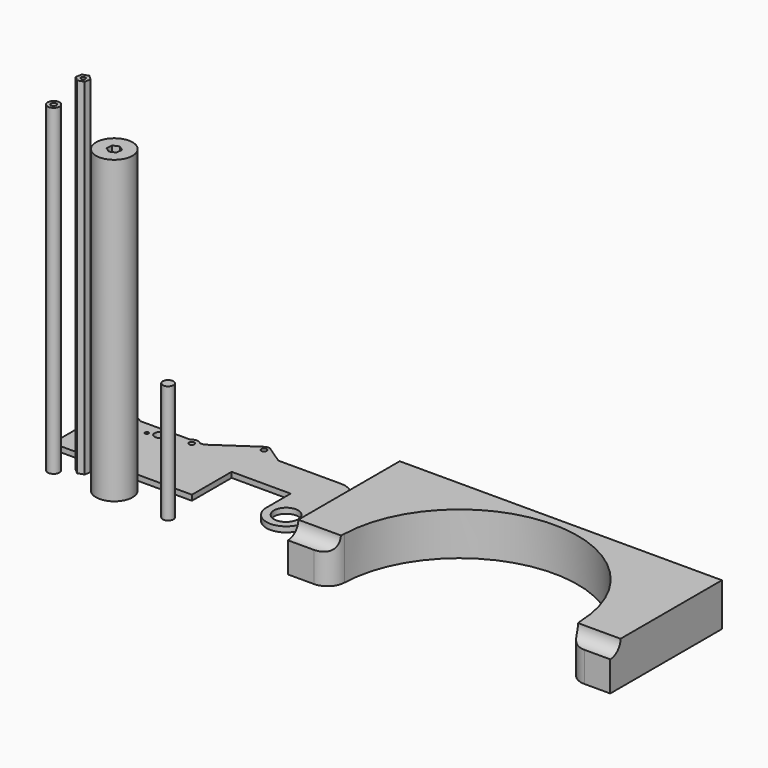
from build123d import *

# Parameters (mm, degrees)
F1_R      = 14.2875
F1_R_2    = 3.175
F1_R_3    = 2
F1_R_4    = 5.9944
F2_DEPTH  = 6.35
F3_R      = 6.985
F3_R_2    = 3.175
F4_DEPTH  = 381
F5_R      = 2.5527
F6_DEPTH  = 408.94
F7_R      = 21.59
F8_DEPTH  = 355.6
F10_DEPTH = 50.8
F11_R     = 20.32
F13_DEPTH = 381
F14_R     = 6.35
F15_DEPTH = 139.7


with BuildPart() as f2:
    # F1 (on Top) → F2 (new body)
    with BuildSketch(Plane.XY):
        with BuildLine():
            Line((-49.9910764957, 62.1962980512), (-63.8297284243, 62.1962980512))
            ThreePointArc((-63.8297284243, 62.1962980512), (-94.8530671804, 53.8699299137), (-74.2244912377, 29.2480329821))
            Line((-74.2244912377, 29.2480329821), (-74.2244912377, -22.9390313281))
            Line((-74.2244912377, -22.9390313281), (90.8755087623, -22.9390313281))
            Line((90.8755087623, -22.9390313281), (90.8755087623, 35.7300707037))
            Line((90.8755087623, 35.7300707037), (160.7255087623, 35.7300707037))
            Line((160.7255087623, 35.7300707037), (160.7255087623, 0))
            ThreePointArc((160.7255087623, 0), (183.9030087623, -23.1775), (207.0805087623, 0))
            Line((207.0805087623, 0), (207.0805087623, 57.9550707037))
            ThreePointArc((207.0805087623, 57.9550707037), (200.5709569742, 73.6705189156), (184.8555087623, 80.1800707037))
            Line((184.8555087623, 80.1800707037), (110.5558629778, 80.1800707037))
            Line((110.5558629778, 80.1800707037), (90.5031153064, 93.7624556725))
            ThreePointArc((90.5031153064, 93.7624556725), (86.9420412896, 94.8549608464), (83.3809672727, 93.7624556725))
            Line((83.3809672727, 93.7624556725), (63.3282196013, 80.1800707037))
            Line((63.3282196013, 80.1800707037), (36.9001390489, 62.1962980512))
            Line((36.9001390489, 62.1962980512), (32.3953867519, 62.1962980512))
            ThreePointArc((32.3953867519, 62.1962980512), (26.7157740891, 64.7362980512), (21.0361614262, 62.1962980512))
            Line((21.0361614262, 62.1962980512), (-38.63185117, 62.1962980512))
            ThreePointArc((-38.63185117, 62.1962980512), (-44.3114638329, 64.7362980512), (-49.9910764957, 62.1962980512))
        make_face()
        with Locations((183.9030087623, 0)):
            Circle(F1_R, mode=Mode.SUBTRACT)
        with Locations((-76.6857422854, 48.1383676345)):
            Circle(F1_R, mode=Mode.SUBTRACT)
        with Locations((-44.3114638329, 57.1162980512)):
            Circle(F1_R_2, mode=Mode.SUBTRACT)
        with Locations((-18.747377767, 47.4084117594)):
            Circle(F1_R_3, mode=Mode.SUBTRACT)
        with Locations((-7.0042270236, 51.6825690866)):
            Circle(F1_R_4, mode=Mode.SUBTRACT)
        with Locations((4.7389237199, 55.9567264137)):
            Circle(F1_R_3, mode=Mode.SUBTRACT)
        with Locations((26.7157740891, 57.1162980512)):
            Circle(F1_R_2, mode=Mode.SUBTRACT)
        with Locations((86.9420412896, 88.5049608464)):
            Circle(F1_R_2, mode=Mode.SUBTRACT)
        with BuildLine():
            Line((-49.9910764957, 62.1962980512), (-63.8297284243, 62.1962980512))
            ThreePointArc((-63.8297284243, 62.1962980512), (-94.8530671804, 53.8699299137), (-74.2244912377, 29.2480329821))
            Line((-74.2244912377, 29.2480329821), (-74.2244912377, -22.9390313281))
            Line((-74.2244912377, -22.9390313281), (90.8755087623, -22.9390313281))
            Line((90.8755087623, -22.9390313281), (90.8755087623, 35.7300707037))
            Line((90.8755087623, 35.7300707037), (160.7255087623, 35.7300707037))
            Line((160.7255087623, 35.7300707037), (160.7255087623, 0))
            ThreePointArc((160.7255087623, 0), (183.9030087623, -23.1775), (207.0805087623, 0))
            Line((207.0805087623, 0), (207.0805087623, 57.9550707037))
            ThreePointArc((207.0805087623, 57.9550707037), (200.5709569742, 73.6705189156), (184.8555087623, 80.1800707037))
            Line((184.8555087623, 80.1800707037), (110.5558629778, 80.1800707037))
            Line((110.5558629778, 80.1800707037), (90.5031153064, 93.7624556725))
            ThreePointArc((90.5031153064, 93.7624556725), (86.9420412896, 94.8549608464), (83.3809672727, 93.7624556725))
            Line((83.3809672727, 93.7624556725), (63.3282196013, 80.1800707037))
            Line((63.3282196013, 80.1800707037), (36.9001390489, 62.1962980512))
            Line((36.9001390489, 62.1962980512), (32.3953867519, 62.1962980512))
            ThreePointArc((32.3953867519, 62.1962980512), (26.7157740891, 64.7362980512), (21.0361614262, 62.1962980512))
            Line((21.0361614262, 62.1962980512), (-38.63185117, 62.1962980512))
            ThreePointArc((-38.63185117, 62.1962980512), (-44.3114638329, 64.7362980512), (-49.9910764957, 62.1962980512))
        make_face()
        with Locations((183.9030087623, 0)):
            Circle(F1_R, mode=Mode.SUBTRACT)
        with Locations((-76.6857422854, 48.1383676345)):
            Circle(F1_R, mode=Mode.SUBTRACT)
        with Locations((-44.3114638329, 57.1162980512)):
            Circle(F1_R_2, mode=Mode.SUBTRACT)
        with Locations((-18.747377767, 47.4084117594)):
            Circle(F1_R_3, mode=Mode.SUBTRACT)
        with Locations((-7.0042270236, 51.6825690866)):
            Circle(F1_R_4, mode=Mode.SUBTRACT)
        with Locations((4.7389237199, 55.9567264137)):
            Circle(F1_R_3, mode=Mode.SUBTRACT)
        with Locations((26.7157740891, 57.1162980512)):
            Circle(F1_R_2, mode=Mode.SUBTRACT)
        with Locations((86.9420412896, 88.5049608464)):
            Circle(F1_R_2, mode=Mode.SUBTRACT)
        with BuildLine():
            Line((-49.9910764957, 62.1962980512), (-63.8297284243, 62.1962980512))
            ThreePointArc((-63.8297284243, 62.1962980512), (-94.8530671804, 53.8699299137), (-74.2244912377, 29.2480329821))
            Line((-74.2244912377, 29.2480329821), (-74.2244912377, -22.9390313281))
            Line((-74.2244912377, -22.9390313281), (90.8755087623, -22.9390313281))
            Line((90.8755087623, -22.9390313281), (90.8755087623, 35.7300707037))
            Line((90.8755087623, 35.7300707037), (160.7255087623, 35.7300707037))
            Line((160.7255087623, 35.7300707037), (160.7255087623, 0))
            ThreePointArc((160.7255087623, 0), (183.9030087623, -23.1775), (207.0805087623, 0))
            Line((207.0805087623, 0), (207.0805087623, 57.9550707037))
            ThreePointArc((207.0805087623, 57.9550707037), (200.5709569742, 73.6705189156), (184.8555087623, 80.1800707037))
            Line((184.8555087623, 80.1800707037), (110.5558629778, 80.1800707037))
            Line((110.5558629778, 80.1800707037), (90.5031153064, 93.7624556725))
            ThreePointArc((90.5031153064, 93.7624556725), (86.9420412896, 94.8549608464), (83.3809672727, 93.7624556725))
            Line((83.3809672727, 93.7624556725), (63.3282196013, 80.1800707037))
            Line((63.3282196013, 80.1800707037), (36.9001390489, 62.1962980512))
            Line((36.9001390489, 62.1962980512), (32.3953867519, 62.1962980512))
            ThreePointArc((32.3953867519, 62.1962980512), (26.7157740891, 64.7362980512), (21.0361614262, 62.1962980512))
            Line((21.0361614262, 62.1962980512), (-38.63185117, 62.1962980512))
            ThreePointArc((-38.63185117, 62.1962980512), (-44.3114638329, 64.7362980512), (-49.9910764957, 62.1962980512))
        make_face()
        with Locations((183.9030087623, 0)):
            Circle(F1_R, mode=Mode.SUBTRACT)
        with Locations((-76.6857422854, 48.1383676345)):
            Circle(F1_R, mode=Mode.SUBTRACT)
        with Locations((-44.3114638329, 57.1162980512)):
            Circle(F1_R_2, mode=Mode.SUBTRACT)
        with Locations((-18.747377767, 47.4084117594)):
            Circle(F1_R_3, mode=Mode.SUBTRACT)
        with Locations((-7.0042270236, 51.6825690866)):
            Circle(F1_R_4, mode=Mode.SUBTRACT)
        with Locations((4.7389237199, 55.9567264137)):
            Circle(F1_R_3, mode=Mode.SUBTRACT)
        with Locations((26.7157740891, 57.1162980512)):
            Circle(F1_R_2, mode=Mode.SUBTRACT)
        with Locations((86.9420412896, 88.5049608464)):
            Circle(F1_R_2, mode=Mode.SUBTRACT)
    extrude(amount=F2_DEPTH)


with BuildPart() as f4:
    # F3 (on Top) → F4 (new body)
    with BuildSketch(Plane.XY):
        with Locations((-46.784657985, -55.2431158721)):
            Circle(F3_R)
        with Locations((-46.784657985, -55.2431158721)):
            Circle(F3_R_2, mode=Mode.SUBTRACT)
    extrude(amount=F4_DEPTH)


with BuildPart() as f6:
    # F5 (on Top) → F6 (new body)
    with BuildSketch(Plane.XY):
        Polygon((-26.2436224322, -46.2252245101), (-19.3046554622, -43.8558214793), (-17.8871351937, -36.6617982918), (-23.4085818952, -31.8371781352), (-30.3475488653, -34.206581166), (-31.7650691337, -41.4006043535), align=None)
        with Locations((-24.8261021637, -39.0312013227)):
            Circle(F5_R, mode=Mode.SUBTRACT)
    extrude(amount=F6_DEPTH)


with BuildPart() as f8:
    # F7 (on Top) → F8 (new body)
    with BuildSketch(Plane.XY):
        with Locations((22.1902159048, -51.7927211475)):
            Circle(F7_R)
        Polygon((28.8987125921, -48.8330918581), (28.1075783988, -56.1226350552), (21.3990817115, -59.0822643445), (15.4817192176, -54.7523504368), (16.2728534109, -47.4628072397), (22.9813500981, -44.5031779504), align=None, mode=Mode.SUBTRACT)
    extrude(amount=F8_DEPTH)


with BuildPart() as f10:
    # F9 (on Top) → F10 (new body)
    with BuildSketch(Plane.XY):
        with BuildLine():
            Line((633.202808857, 82.55), (252.202808857, 82.55))
            Line((252.202808857, 82.55), (252.202808857, -82.55))
            Line((252.202808857, -82.55), (303.8365696193, -82.55))
            ThreePointArc((303.8365696193, -82.55), (442.702808857, 72.39), (581.5690480946, -82.55))
            Line((581.5690480946, -82.55), (633.202808857, -82.55))
            Line((633.202808857, -82.55), (633.202808857, 82.55))
        make_face()
    extrude(amount=F10_DEPTH)

    # F11
    f11_edges = [f10.edges().sort_by_distance(p)[0] for p in [
        (303.83657, -82.55, 25.4),
        (581.569048, -82.55, 25.4),
    ]]
    fillet(f11_edges, radius=F11_R)

    # F12 (on face) → F13 (cut, through all)
    with BuildSketch(Plane.YZ.offset(633.202808857)):
        with BuildLine():
            Line((-82.55, 50.8), (-82.55, 35.56))
            ThreePointArc((-82.55, 35.56), (-71.7736926547, 40.0236926547), (-67.31, 50.8))
            Line((-67.31, 50.8), (-82.55, 50.8))
        make_face()
    extrude(amount=-F13_DEPTH, mode=Mode.SUBTRACT)


with BuildPart() as f15:
    # F14 (on Top) → F15 (new body)
    with BuildSketch(Plane.XY):
        with Locations((94.4636166096, -62.587916851)):
            Circle(F14_R)
    extrude(amount=F15_DEPTH)


solid = Compound([f2.part, f4.part, f6.part, f8.part, f10.part, f15.part])
